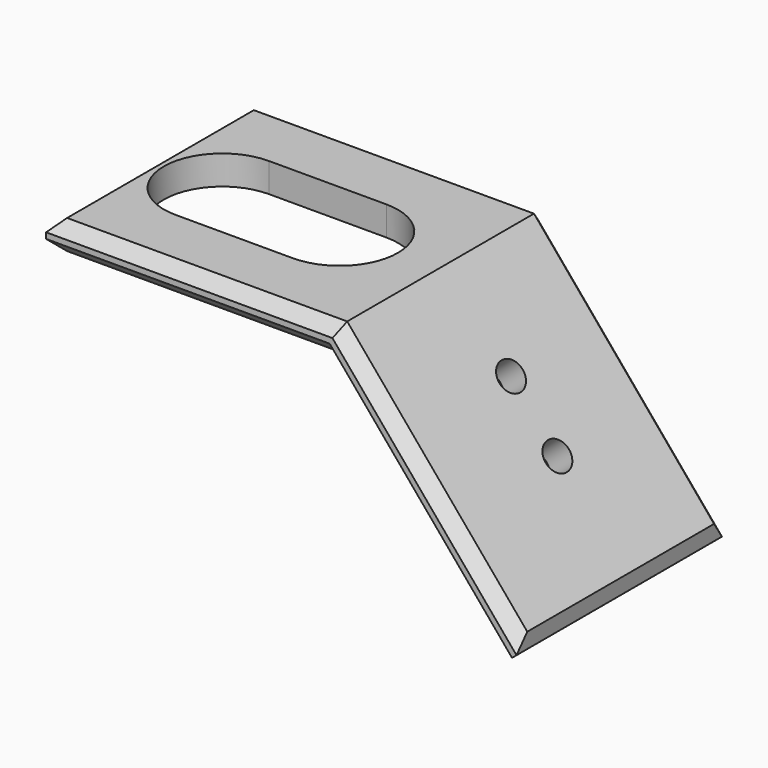
from build123d import *

# Parameters (mm, degrees)
F1_DEPTH = 44
F3_DEPTH = 25
F5_D     = 5
F6_SIZE  = 2
F7_SIZE  = 2


with BuildPart() as f1:
    # F0 (on Front) → F1 (new body)
    with BuildSketch(Plane.XZ):
        Polygon((50, 0), (0, 0), (0, -5), (47.668462, -5), (78.309158, -41.51616), (82.13938, -38.302222), align=None)
    extrude(amount=F1_DEPTH)

    # F2 (on face) → F3 (cut)
    with BuildSketch(Plane.XY):
        with BuildLine():
            ThreePointArc((12.776074, -12.236962), (2.776074, -22.236962), (12.776074, -32.236962))
            Line((12.776074, -32.236962), (32.888483, -32.236962))
            ThreePointArc((32.888483, -32.236962), (42.888483, -22.236962), (32.888483, -12.236962))
            Line((32.888483, -12.236962), (12.776074, -12.236962))
        make_face()
    extrude(amount=-F3_DEPTH, mode=Mode.SUBTRACT)

    # F5 (through all)
    with Locations(Plane(origin=(29.341204, 0, 24.620194), x_dir=(0, 1, 0), z_dir=(0.766044, 0, 0.642788))):
        with Locations((-20.821171, -49.455423), (-20.821171, -61.805919)):
            Hole(F5_D / 2)

    # F6
    f6_edges = [f1.edges().sort_by_distance(p)[0] for p in [
        (66.06969, -44, -19.151111),
        (62.98881, -44, -23.25808),
        (78.309158, -22, -41.51616),
        (82.13938, -22, -38.302222),
        (66.06969, 0, -19.151111),
        (62.98881, 0, -23.25808),
    ]]
    chamfer(f6_edges, length=F6_SIZE)

    # F7
    f7_edges = [f1.edges().sort_by_distance(p)[0] for p in [
        (23.694593, 0, 0),
        (23.834231, 0, -5),
        (0, -22, 0),
        (0, -22, -5),
        (23.694593, -44, 0),
        (23.834231, -44, -5),
    ]]
    chamfer(f7_edges, length=F7_SIZE)


solid = f1.part
